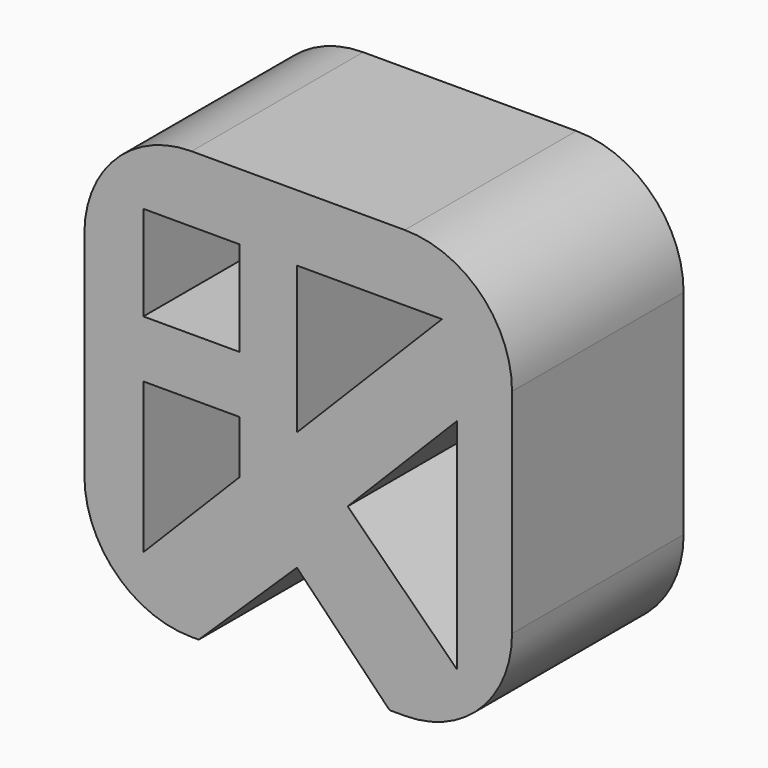
from build123d import *

# Parameters (mm, degrees)
F2_DEPTH = 12.7
F3_DEPTH = 25.4
F4_W     = 7.152606
F4_H     = 3.387249
F5_DEPTH = 12.7
F7_DEPTH = 254


with BuildPart() as f2:
    # F0 (on Front) → F2 (new body)
    with BuildSketch(Plane.XZ):
        with BuildLine():
            Line((-34.402621, 38.858883), (-47.026384, 38.858883))
            ThreePointArc((-47.026384, 38.858883), (-51.516512, 36.999011), (-53.376384, 32.508883))
            Line((-53.376384, 32.508883), (-53.376384, 19.885116))
            ThreePointArc((-53.376384, 19.885116), (-51.516512, 15.394988), (-47.026384, 13.535116))
            Line((-47.026384, 13.535116), (-34.402621, 13.535116))
            ThreePointArc((-34.402621, 13.535116), (-29.912493, 15.394988), (-28.052621, 19.885116))
            Line((-28.052621, 19.885116), (-28.052621, 32.508883))
            ThreePointArc((-28.052621, 32.508883), (-29.912493, 36.999011), (-34.402621, 38.858883))
        make_face()
    extrude(amount=F2_DEPTH)

    # F1 (on Front) → F3 (cut, symmetric)
    with BuildSketch(Plane.XZ):
        Polygon((-32.199131, 34.929331), (-49.883451, 34.929331), (-49.883451, 17.02805), align=None)
        Polygon((-31.301971, 16.947381), (-31.301971, 29.916352), (-37.785975, 23.3528), align=None)
    extrude(amount=F3_DEPTH, both=True, mode=Mode.SUBTRACT)

    # F4 (on Front) → F5 (join)
    with BuildSketch(Plane.XZ):
        Polygon((-44.176444, 25.931474), (-44.176444, 21.922855), (-40.789195, 21.922855), (-40.789195, 36.714591), (-44.176444, 36.714591), (-44.176444, 29.318723), align=None)
        with Locations((-47.752747, 27.625099)):
            Rectangle(F4_W, F4_H)
    extrude(amount=F5_DEPTH)

    # F6 (on face) → F7 (cut)
    with BuildSketch(Plane(origin=(0, 0, 0), x_dir=(-1, 0, 0), z_dir=(0, 1, 0))):
        Polygon((35.308003, 13.535116), (46.605372, 13.535116), (40.789195, 19.181317), align=None)
        Polygon((33.403759, 11.573545), (47.081295, 13.073102), (46.605372, 13.535116), (35.308003, 13.535116), align=None)
    extrude(amount=-F7_DEPTH, mode=Mode.SUBTRACT)


solid = f2.part
